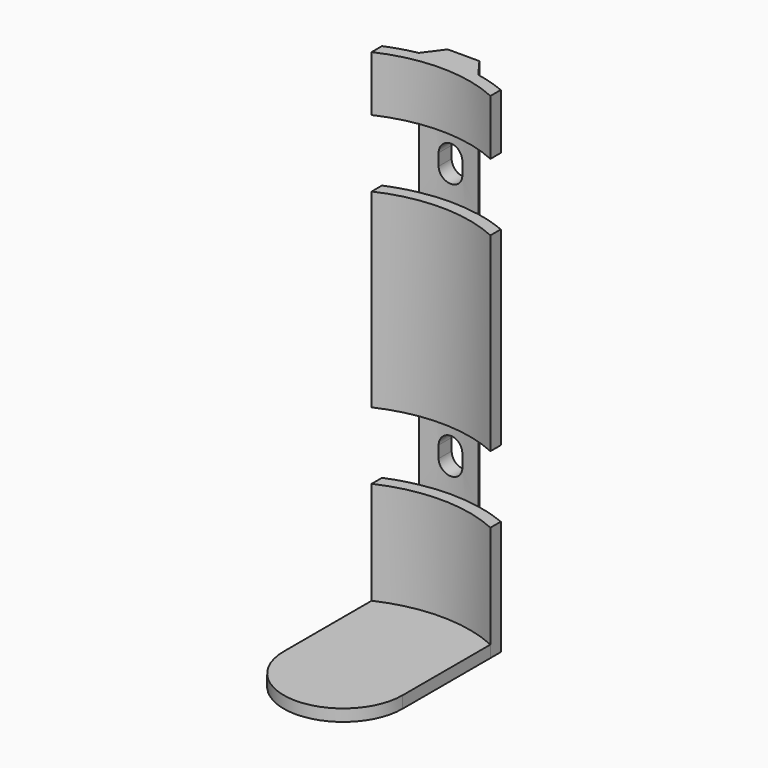
from build123d import *

# Parameters (mm, degrees)
PAD_DEPTH       = 125
PAD001_DEPTH    = 3
POCKET_DEPTH    = 17
POCKET001_DEPTH = 17
POCKET002_DEPTH = 20


with BuildPart() as part:
    # Sketch → Pad (new body)
    with BuildSketch(Plane.XY):
        with BuildLine():
            ThreePointArc((15, 32.726136), (0, 35.9999996561), (-15, 32.726136))
            Line((-15, 32.726136), (-15, 36))
            ThreePointArc((-7.5, 38.272052), (-11.3072125351, 37.3248834793), (-15, 36))
            Line((-7.5, 38.272052), (-4, 43))
            Line((-4, 43), (4, 43))
            Line((7.5, 38.272052), (4, 43))
            ThreePointArc((15, 36), (11.3072125351, 37.3248834793), (7.5, 38.272052))
            Line((15, 32.726136), (15, 36))
        make_face()
    extrude(amount=PAD_DEPTH)

    # Sketch003 → Pad001 (join)
    with BuildSketch(Plane.XY):
        with BuildLine():
            ThreePointArc((-15, 4.999998377), (0, -10), (15, 4.999998377))
            Line((15, 4.999998377), (15.000003, 32.7261349689))
            ThreePointArc((15.000003, 32.7261349689), (0, 36), (-15.000003, 32.7261349689))
            Line((-15.000003, 32.7261349689), (-15, 4.999998377))
        make_face()
    extrude(amount=PAD001_DEPTH)

    # Sketch004 → Pocket (cut)
    with BuildSketch(Plane.XY.offset(111)):
        with BuildLine():
            ThreePointArc((15, 32.726136), (0, 35.9999996561), (-15, 32.726136))
            Line((-15, 32.726136), (-15, 36))
            ThreePointArc((15, 36), (0, 38.9999999735), (-15, 36))
            Line((15, 32.726136), (15, 36))
        make_face()
    extrude(amount=-POCKET_DEPTH, mode=Mode.SUBTRACT)

    # Sketch005 → Pocket001 (cut)
    with BuildSketch(Plane.XY.offset(46)):
        with BuildLine():
            ThreePointArc((15, 32.726136), (0, 35.9999996561), (-15, 32.726136))
            Line((-15, 32.726136), (-15, 36))
            ThreePointArc((15, 36), (0, 38.9999999735), (-15, 36))
            Line((15, 32.726136), (15, 36))
        make_face()
    extrude(amount=-POCKET001_DEPTH, mode=Mode.SUBTRACT)

    # Sketch006 → Pocket002 (cut)
    with BuildSketch(Plane.XZ.offset(-35)):
        with BuildLine():
            ThreePointArc((3, 104), (0, 107), (-3, 104))
            Line((-3, 104), (-3, 101))
            ThreePointArc((-3, 101), (0, 98), (3, 101))
            Line((3, 101), (3, 104))
        make_face()
        with BuildLine():
            ThreePointArc((3, 39), (0, 42), (-3, 39))
            Line((-3, 39), (-3, 36))
            ThreePointArc((-3, 36), (0, 33), (3, 36))
            Line((3, 36), (3, 39))
        make_face()
    extrude(amount=-POCKET002_DEPTH, mode=Mode.SUBTRACT)


solid = part.part
